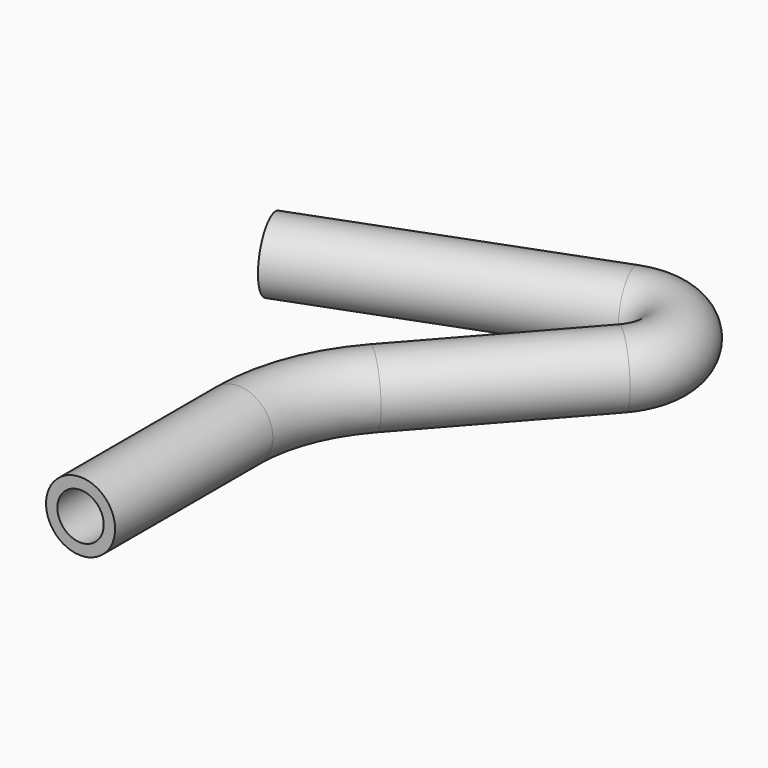
from build123d import *

# Parameters (mm, degrees)
F1_R   = 8.89
F1_R_2 = 5.969


with BuildPart() as f2:
    # F2: sweep along a path in F0
    with BuildLine(Plane.XY) as f2_path:
        Line((0, 0), (0, 50.8))
        ThreePointArc((0, 50.8), (2.8910374865, 66.5827827496), (11.1887268722, 80.3160518408))
        Line((11.1887268722, 80.3160518408), (44.8635634293, 118.3508435827))
        ThreePointArc((44.8635634293, 118.3508435827), (45.8749667661, 134.833448563), (30.1250307341, 139.7971889506))
        Line((30.1250307341, 139.7971889506), (-41.2416633306, 113.0907294647))
    # F1 (on Front) → F2 (sweep)
    with BuildSketch(Plane.XZ):
        Circle(F1_R)
        Circle(F1_R_2, mode=Mode.SUBTRACT)
    sweep(path=f2_path.line)


solid = f2.part
